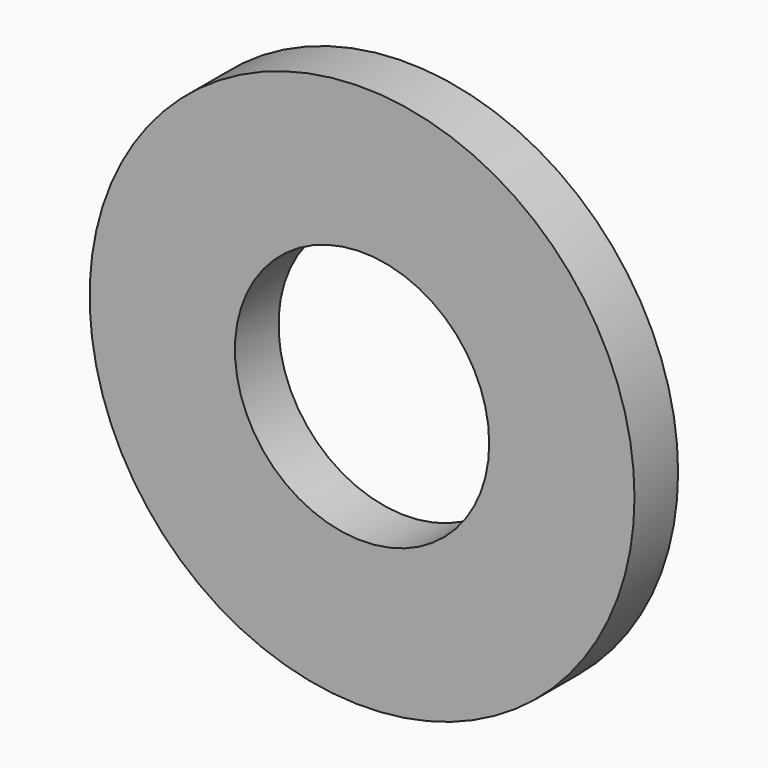
from build123d import *

# Parameters (mm, degrees)
SKETCH_R   = 15
SKETCH_R_2 = 7
PAD_DEPTH  = 3


with BuildPart() as part:
    # Sketch → Pad (new body)
    with BuildSketch(Plane.XZ):
        Circle(SKETCH_R)
        Circle(SKETCH_R_2, mode=Mode.SUBTRACT)
    extrude(amount=PAD_DEPTH)


solid = part.part
